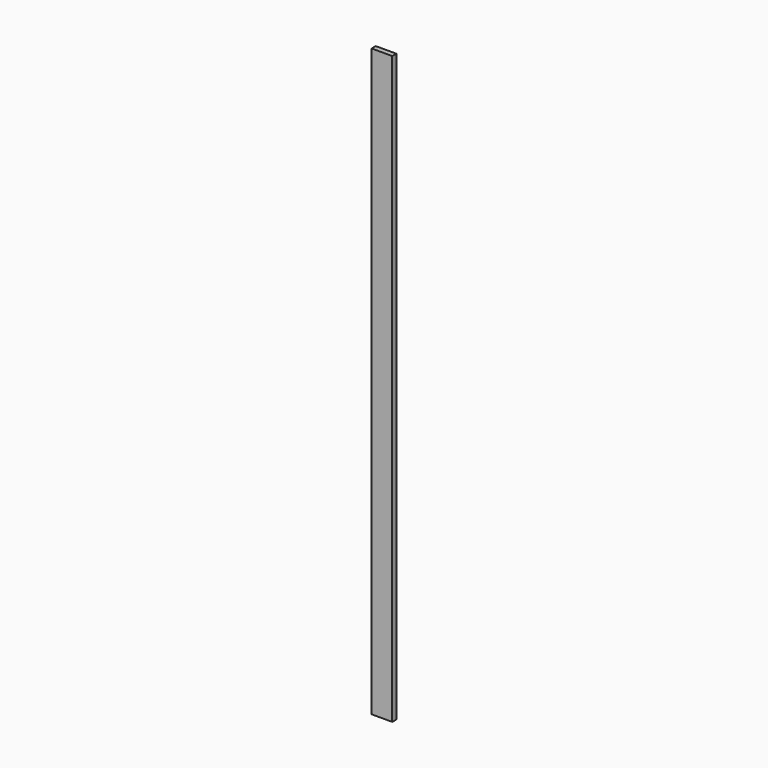
from build123d import *

# Parameters (mm, degrees)
SKETCH_W  = 20
SKETCH_H  = 5
PAD_DEPTH = 570


with BuildPart() as part:
    # Sketch → Pad (new body)
    with BuildSketch(Plane.XY):
        with Locations((10, -2.5)):
            Rectangle(SKETCH_W, SKETCH_H)
    extrude(amount=PAD_DEPTH)


solid = part.part
